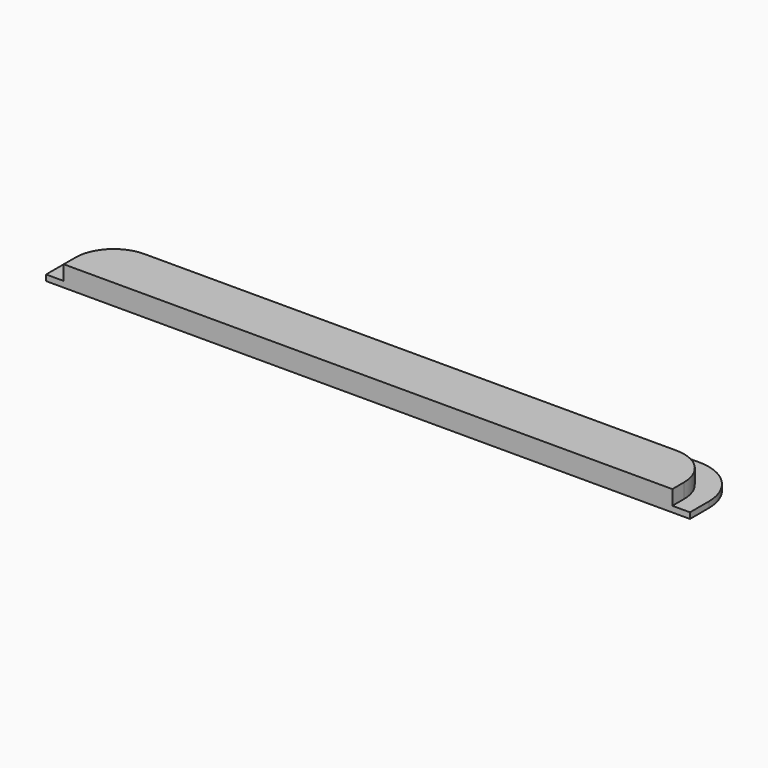
from build123d import *

# Parameters (mm, degrees)
F0_W     = 103.5
F0_H     = 9
F1_DEPTH = 2.5
F2_R     = 6.5
F3_W     = 109.5
F3_H     = 12
F4_DEPTH = 1
F5_R     = 8


with BuildPart() as f1:
    # F0 (on Top) → F1 (new body)
    with BuildSketch(Plane.XY):
        with Locations((51.75, -4.5)):
            Rectangle(F0_W, F0_H)
    extrude(amount=F1_DEPTH)

    # F2
    f2_edges = [f1.edges().sort_by_distance(p)[0] for p in [
        (103.5, 0, 1.25),
        (0, 0, 1.25),
    ]]
    fillet(f2_edges, radius=F2_R)

    # F3 (on face) → F4 (join)
    with BuildSketch(Plane(origin=(0, 0, 0), x_dir=(1, 0, 0), z_dir=(0, 0, -1))):
        with Locations((51.75, 3)):
            Rectangle(F3_W, F3_H)
    extrude(amount=F4_DEPTH)

    # F5
    f5_edges = [f1.edges().sort_by_distance(p)[0] for p in [
        (106.5, 3, -0.5),
        (-3, 3, -0.5),
    ]]
    fillet(f5_edges, radius=F5_R)


solid = f1.part
